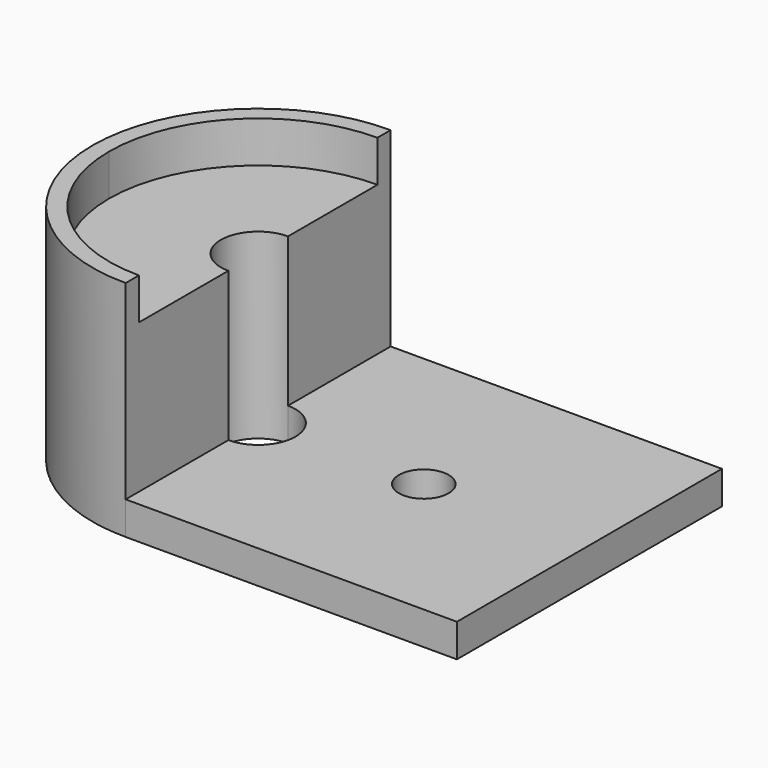
from build123d import *

# Parameters (mm, degrees)
F0_R     = 1.5
F1_DEPTH = 2
F2_DEPTH = 9
F4_DEPTH = 2.5


with BuildPart() as f1:
    # F0 (on Top) → F1 (new body)
    with BuildSketch(Plane.XY):
        with BuildLine():
            Line((-5, -10), (15, -10))
            Line((15, -10), (15, 10))
            Line((15, 10), (-5, 10))
            Line((-5, 10), (-5, 9))
            Line((-5, 9), (-5, 2.25))
            ThreePointArc((-5, 2.25), (-3.40901, 1.59099), (-2.75, 0))
            ThreePointArc((-2.75, 0), (-3.40901, -1.59099), (-5, -2.25))
            Line((-5, -2.25), (-5, -9))
            Line((-5, -9), (-5, -10))
        make_face()
        with Locations((5, 0)):
            Circle(F0_R, mode=Mode.SUBTRACT)
        with BuildLine():
            ThreePointArc((-15, 0), (-12.071068, -7.071068), (-5, -10))
            Line((-5, -10), (-5, -9))
            ThreePointArc((-5, -9), (-11.363961, -6.363961), (-14, 0))
            ThreePointArc((-14, 0), (-11.363961, 6.363961), (-5, 9))
            Line((-5, 9), (-5, 10))
            ThreePointArc((-5, 10), (-12.071068, 7.071068), (-15, 0))
        make_face()
        with BuildLine():
            ThreePointArc((-14, 0), (-11.363961, -6.363961), (-5, -9))
            Line((-5, -9), (-5, -2.25))
            ThreePointArc((-5, -2.25), (-7.25, 0), (-5, 2.25))
            Line((-5, 2.25), (-5, 9))
            ThreePointArc((-5, 9), (-11.363961, 6.363961), (-14, 0))
        make_face()
    extrude(amount=-F1_DEPTH)

    # F0 (on Top) → F2 (join)
    with BuildSketch(Plane.XY):
        with BuildLine():
            ThreePointArc((-14, 0), (-11.363961, -6.363961), (-5, -9))
            Line((-5, -9), (-5, -2.25))
            ThreePointArc((-5, -2.25), (-7.25, 0), (-5, 2.25))
            Line((-5, 2.25), (-5, 9))
            ThreePointArc((-5, 9), (-11.363961, 6.363961), (-14, 0))
        make_face()
        with BuildLine():
            ThreePointArc((-15, 0), (-12.071068, -7.071068), (-5, -10))
            Line((-5, -10), (-5, -9))
            ThreePointArc((-5, -9), (-11.363961, -6.363961), (-14, 0))
            ThreePointArc((-14, 0), (-11.363961, 6.363961), (-5, 9))
            Line((-5, 9), (-5, 10))
            ThreePointArc((-5, 10), (-12.071068, 7.071068), (-15, 0))
        make_face()
    extrude(amount=F2_DEPTH)

    # F3 (on face) → F4 (join)
    with BuildSketch(Plane.XY.offset(9)):
        with BuildLine():
            Line((-5, 9), (-5, 10))
            ThreePointArc((-5, 10), (-12.071068, 7.071068), (-15, 0))
            ThreePointArc((-15, 0), (-12.071068, -7.071068), (-5, -10))
            Line((-5, -10), (-5, -9))
            ThreePointArc((-5, -9), (-11.363961, -6.363961), (-14, 0))
            ThreePointArc((-14, 0), (-11.363961, 6.363961), (-5, 9))
        make_face()
    extrude(amount=F4_DEPTH)


solid = f1.part
